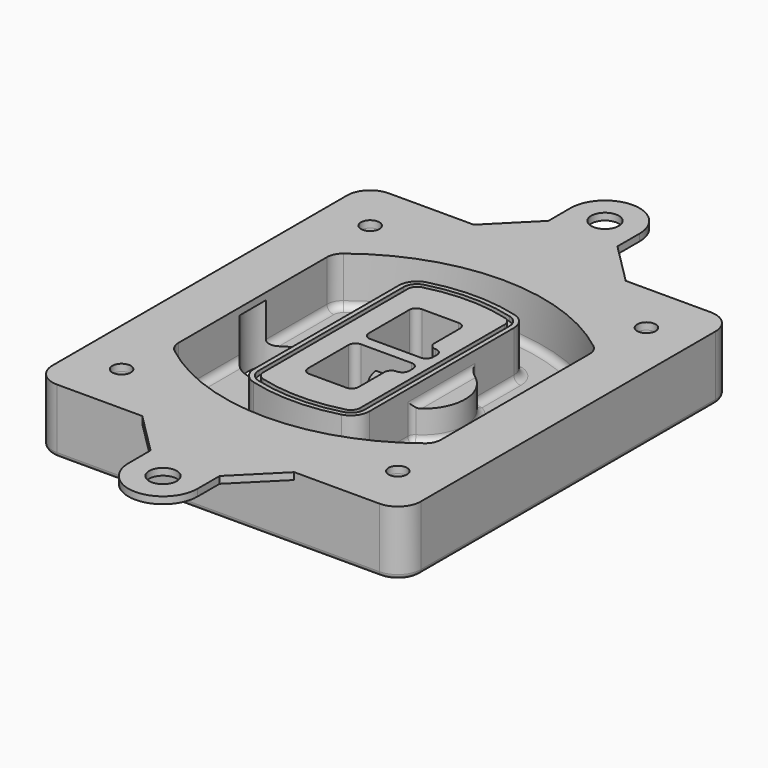
from build123d import *

# Parameters (mm, degrees)
F0_R      = 4
F1_DEPTH  = 25
F2_DEPTH  = 3
F3_DEPTH  = 18
F5_DEPTH  = 21
F6_DEPTH  = 2
F8_DEPTH  = 20
F9_DEPTH  = 16
F10_DEPTH = 25
F7_R      = 6
F7_R_2    = 4
F11_DEPTH = 6
F13_DEPTH = 9
F14_R     = 3
F15_R     = 2
F16_R     = 6
F16_R_2   = 4
F17_DEPTH = 3


with BuildPart() as f1:
    # F0 (on Top) → F1 (new body)
    with BuildSketch(Plane.XY):
        with BuildLine():
            ThreePointArc((-80, -80), (-77.0710678119, -87.0710678119), (-70, -90))
            Line((-70, -90), (70, -90))
            ThreePointArc((70, -90), (77.0710678119, -87.0710678119), (80, -80))
            Line((80, -80), (80, 80))
            ThreePointArc((80, 80), (77.0710678119, 87.0710678119), (70, 90))
            Line((70, 90), (-70, 90))
            ThreePointArc((-70, 90), (-77.0710678119, 87.0710678119), (-80, 80))
            Line((-80, 80), (-80, -80))
        make_face()
        with Locations((-60, -67.5)):
            Circle(F0_R, mode=Mode.SUBTRACT)
        with Locations((60, -67.5)):
            Circle(F0_R, mode=Mode.SUBTRACT)
        with Locations((-60, 67.5)):
            Circle(F0_R, mode=Mode.SUBTRACT)
        with BuildLine():
            ThreePointArc((-64, 40.2934422872), (-62.5820384798, 46.4328484224), (-58.6153846154, 51.3286200352))
            ThreePointArc((-58.6153846154, 51.3286200352), (0, 71.5), (58.6153846154, 51.3286200352))
            ThreePointArc((58.6153846154, 51.3286200352), (62.5820384798, 46.4328484224), (64, 40.2934422872))
            Line((64, 40.2934422872), (64, -40.2934422872))
            ThreePointArc((64, -40.2934422872), (62.5820384798, -46.4328484224), (58.6153846154, -51.3286200352))
            ThreePointArc((58.6153846154, -51.3286200352), (0, -71.5), (-58.6153846154, -51.3286200352))
            ThreePointArc((-58.6153846154, -51.3286200352), (-62.5820384798, -46.4328484224), (-64, -40.2934422872))
            Line((-64, -40.2934422872), (-64, 40.2934422872))
        make_face(mode=Mode.SUBTRACT)
        with Locations((60, 67.5)):
            Circle(F0_R, mode=Mode.SUBTRACT)
        with BuildLine():
            ThreePointArc((58.6153846154, 51.3286200352), (0, 71.5), (-58.6153846154, 51.3286200352))
            ThreePointArc((-58.6153846154, 51.3286200352), (-62.5820384798, 46.4328484224), (-64, 40.2934422872))
            Line((-64, 40.2934422872), (-64, -40.2934422872))
            ThreePointArc((-64, -40.2934422872), (-62.5820384798, -46.4328484224), (-58.6153846154, -51.3286200352))
            ThreePointArc((-58.6153846154, -51.3286200352), (0, -71.5), (58.6153846154, -51.3286200352))
            ThreePointArc((58.6153846154, -51.3286200352), (62.5820384798, -46.4328484224), (64, -40.2934422872))
            Line((64, -40.2934422872), (64, 40.2934422872))
            ThreePointArc((64, 40.2934422872), (62.5820384798, 46.4328484224), (58.6153846154, 51.3286200352))
        make_face()
        with BuildLine():
            Line((-60, -40.2934422872), (-60, 40.2934422872))
            ThreePointArc((-60, 40.2934422872), (-58.9871703427, 44.6787323838), (-56.1538461538, 48.1757121072))
            ThreePointArc((-56.1538461538, 48.1757121072), (0, 67.5), (56.1538461538, 48.1757121072))
            ThreePointArc((56.1538461538, 48.1757121072), (58.9871703427, 44.6787323838), (60, 40.2934422872))
            Line((60, 40.2934422872), (60, -40.2934422872))
            ThreePointArc((60, -40.2934422872), (58.9871703427, -44.6787323838), (56.1538461538, -48.1757121072))
            ThreePointArc((56.1538461538, -48.1757121072), (0, -67.5), (-56.1538461538, -48.1757121072))
            ThreePointArc((-56.1538461538, -48.1757121072), (-58.9871703427, -44.6787323838), (-60, -40.2934422872))
        make_face(mode=Mode.SUBTRACT)
        with BuildLine():
            ThreePointArc((-56.1538461538, 48.1757121072), (-58.9871703427, 44.6787323838), (-60, 40.2934422872))
            Line((-60, 40.2934422872), (-60, -40.2934422872))
            ThreePointArc((-60, -40.2934422872), (-58.9871703427, -44.6787323838), (-56.1538461538, -48.1757121072))
            ThreePointArc((-56.1538461538, -48.1757121072), (0, -67.5), (56.1538461538, -48.1757121072))
            ThreePointArc((56.1538461538, -48.1757121072), (58.9871703427, -44.6787323838), (60, -40.2934422872))
            Line((60, -40.2934422872), (60, 40.2934422872))
            ThreePointArc((60, 40.2934422872), (58.9871703427, 44.6787323838), (56.1538461538, 48.1757121072))
            ThreePointArc((56.1538461538, 48.1757121072), (0, 67.5), (-56.1538461538, 48.1757121072))
        make_face()
        with BuildLine():
            ThreePointArc((54.3076923077, 45.8110311612), (56.2910192399, 43.3631453548), (57, 40.2934422872))
            Line((57, 40.2934422872), (57, -40.2934422872))
            ThreePointArc((57, -40.2934422872), (56.2910192399, -43.3631453548), (54.3076923077, -45.8110311612))
            ThreePointArc((54.3076923077, -45.8110311612), (0, -64.5), (-54.3076923077, -45.8110311612))
            ThreePointArc((-54.3076923077, -45.8110311612), (-56.2910192399, -43.3631453548), (-57, -40.2934422872))
            Line((-57, -40.2934422872), (-57, 40.2934422872))
            ThreePointArc((-57, 40.2934422872), (-56.2910192399, 43.3631453548), (-54.3076923077, 45.8110311612))
            ThreePointArc((-54.3076923077, 45.8110311612), (0, 64.5), (54.3076923077, 45.8110311612))
        make_face(mode=Mode.SUBTRACT)
        with BuildLine():
            Line((57, -40.2934422872), (57, 40.2934422872))
            ThreePointArc((57, 40.2934422872), (56.2910192399, 43.3631453548), (54.3076923077, 45.8110311612))
            ThreePointArc((54.3076923077, 45.8110311612), (0, 64.5), (-54.3076923077, 45.8110311612))
            ThreePointArc((-54.3076923077, 45.8110311612), (-56.2910192399, 43.3631453548), (-57, 40.2934422872))
            Line((-57, 40.2934422872), (-57, -40.2934422872))
            ThreePointArc((-57, -40.2934422872), (-56.2910192399, -43.3631453548), (-54.3076923077, -45.8110311612))
            ThreePointArc((-54.3076923077, -45.8110311612), (0, -64.5), (54.3076923077, -45.8110311612))
            ThreePointArc((54.3076923077, -45.8110311612), (56.2910192399, -43.3631453548), (57, -40.2934422872))
        make_face()
    extrude(amount=-F1_DEPTH)

    # F0 (on Top) → F2 (join)
    with BuildSketch(Plane.XY):
        with BuildLine():
            ThreePointArc((-56.1538461538, 48.1757121072), (-58.9871703427, 44.6787323838), (-60, 40.2934422872))
            Line((-60, 40.2934422872), (-60, -40.2934422872))
            ThreePointArc((-60, -40.2934422872), (-58.9871703427, -44.6787323838), (-56.1538461538, -48.1757121072))
            ThreePointArc((-56.1538461538, -48.1757121072), (0, -67.5), (56.1538461538, -48.1757121072))
            ThreePointArc((56.1538461538, -48.1757121072), (58.9871703427, -44.6787323838), (60, -40.2934422872))
            Line((60, -40.2934422872), (60, 40.2934422872))
            ThreePointArc((60, 40.2934422872), (58.9871703427, 44.6787323838), (56.1538461538, 48.1757121072))
            ThreePointArc((56.1538461538, 48.1757121072), (0, 67.5), (-56.1538461538, 48.1757121072))
        make_face()
        with BuildLine():
            ThreePointArc((54.3076923077, 45.8110311612), (56.2910192399, 43.3631453548), (57, 40.2934422872))
            Line((57, 40.2934422872), (57, -40.2934422872))
            ThreePointArc((57, -40.2934422872), (56.2910192399, -43.3631453548), (54.3076923077, -45.8110311612))
            ThreePointArc((54.3076923077, -45.8110311612), (0, -64.5), (-54.3076923077, -45.8110311612))
            ThreePointArc((-54.3076923077, -45.8110311612), (-56.2910192399, -43.3631453548), (-57, -40.2934422872))
            Line((-57, -40.2934422872), (-57, 40.2934422872))
            ThreePointArc((-57, 40.2934422872), (-56.2910192399, 43.3631453548), (-54.3076923077, 45.8110311612))
            ThreePointArc((-54.3076923077, 45.8110311612), (0, 64.5), (54.3076923077, 45.8110311612))
        make_face(mode=Mode.SUBTRACT)
    extrude(amount=F2_DEPTH)

    # F0 (on Top) → F3 (cut)
    with BuildSketch(Plane.XY):
        with BuildLine():
            Line((57, -40.2934422872), (57, 40.2934422872))
            ThreePointArc((57, 40.2934422872), (56.2910192399, 43.3631453548), (54.3076923077, 45.8110311612))
            ThreePointArc((54.3076923077, 45.8110311612), (0, 64.5), (-54.3076923077, 45.8110311612))
            ThreePointArc((-54.3076923077, 45.8110311612), (-56.2910192399, 43.3631453548), (-57, 40.2934422872))
            Line((-57, 40.2934422872), (-57, -40.2934422872))
            ThreePointArc((-57, -40.2934422872), (-56.2910192399, -43.3631453548), (-54.3076923077, -45.8110311612))
            ThreePointArc((-54.3076923077, -45.8110311612), (0, -64.5), (54.3076923077, -45.8110311612))
            ThreePointArc((54.3076923077, -45.8110311612), (56.2910192399, -43.3631453548), (57, -40.2934422872))
        make_face()
    extrude(amount=-F3_DEPTH, mode=Mode.SUBTRACT)

    # F4 (on face) → F5 (join, through all)
    with BuildSketch(Plane.XY.offset(3)):
        with BuildLine():
            ThreePointArc((-25, -39.2465276821), (-23.3511545998, -44.1109737193), (-19.0842911877, -46.9702398883))
            ThreePointArc((-19.0842911877, -46.9702398883), (0, -49.5), (19.0842911877, -46.9702398883))
            ThreePointArc((19.0842911877, -46.9702398883), (23.3511545998, -44.1109737193), (25, -39.2465276821))
            Line((25, -39.2465276821), (25, 39.2465276821))
            ThreePointArc((25, 39.2465276821), (23.3511545998, 44.1109737193), (19.0842911877, 46.9702398883))
            ThreePointArc((19.0842911877, 46.9702398883), (0, 49.5), (-19.0842911877, 46.9702398883))
            ThreePointArc((-19.0842911877, 46.9702398883), (-23.3511545998, 44.1109737193), (-25, 39.2465276821))
            Line((-25, 39.2465276821), (-25, -39.2465276821))
        make_face()
        with BuildLine():
            ThreePointArc((18.5632183908, 45.0393118368), (21.7633659499, 42.89486221), (23, 39.2465276821))
            Line((23, 39.2465276821), (23, -39.2465276821))
            ThreePointArc((23, -39.2465276821), (21.7633659499, -42.89486221), (18.5632183908, -45.0393118368))
            ThreePointArc((18.5632183908, -45.0393118368), (0, -47.5), (-18.5632183908, -45.0393118368))
            ThreePointArc((-18.5632183908, -45.0393118368), (-21.7633659499, -42.89486221), (-23, -39.2465276821))
            Line((-23, -39.2465276821), (-23, 39.2465276821))
            ThreePointArc((-23, 39.2465276821), (-21.7633659499, 42.89486221), (-18.5632183908, 45.0393118368))
            ThreePointArc((-18.5632183908, 45.0393118368), (0, 47.5), (18.5632183908, 45.0393118368))
        make_face(mode=Mode.SUBTRACT)
        with BuildLine():
            Line((23, -39.2465276821), (23, 39.2465276821))
            ThreePointArc((23, 39.2465276821), (21.7633659499, 42.89486221), (18.5632183908, 45.0393118368))
            ThreePointArc((18.5632183908, 45.0393118368), (0, 47.5), (-18.5632183908, 45.0393118368))
            ThreePointArc((-18.5632183908, 45.0393118368), (-21.7633659499, 42.89486221), (-23, 39.2465276821))
            Line((-23, 39.2465276821), (-23, -39.2465276821))
            ThreePointArc((-23, -39.2465276821), (-21.7633659499, -42.89486221), (-18.5632183908, -45.0393118368))
            ThreePointArc((-18.5632183908, -45.0393118368), (0, -47.5), (18.5632183908, -45.0393118368))
            ThreePointArc((18.5632183908, -45.0393118368), (21.7633659499, -42.89486221), (23, -39.2465276821))
        make_face()
        with BuildLine():
            ThreePointArc((18.0421455939, 43.1083837852), (20.1755772999, 41.6787507007), (21, 39.2465276821))
            Line((21, 39.2465276821), (21, -39.2465276821))
            ThreePointArc((21, -39.2465276821), (20.1755772999, -41.6787507007), (18.0421455939, -43.1083837852))
            ThreePointArc((18.0421455939, -43.1083837852), (0, -45.5), (-18.0421455939, -43.1083837852))
            ThreePointArc((-18.0421455939, -43.1083837852), (-20.1755772999, -41.6787507007), (-21, -39.2465276821))
            Line((-21, -39.2465276821), (-21, 39.2465276821))
            ThreePointArc((-21, 39.2465276821), (-20.1755772999, 41.6787507007), (-18.0421455939, 43.1083837852))
            ThreePointArc((-18.0421455939, 43.1083837852), (0, 45.5), (18.0421455939, 43.1083837852))
        make_face(mode=Mode.SUBTRACT)
        with BuildLine():
            Line((21, -39.2465276821), (21, 39.2465276821))
            ThreePointArc((21, 39.2465276821), (20.1755772999, 41.6787507007), (18.0421455939, 43.1083837852))
            ThreePointArc((18.0421455939, 43.1083837852), (0, 45.5), (-18.0421455939, 43.1083837852))
            ThreePointArc((-18.0421455939, 43.1083837852), (-20.1755772999, 41.6787507007), (-21, 39.2465276821))
            Line((-21, 39.2465276821), (-21, -39.2465276821))
            ThreePointArc((-21, -39.2465276821), (-20.1755772999, -41.6787507007), (-18.0421455939, -43.1083837852))
            ThreePointArc((-18.0421455939, -43.1083837852), (0, -45.5), (18.0421455939, -43.1083837852))
            ThreePointArc((18.0421455939, -43.1083837852), (20.1755772999, -41.6787507007), (21, -39.2465276821))
        make_face()
        with BuildLine():
            Line((-8, -2.5), (14, -2.5))
            ThreePointArc((14, -2.5), (16.1213203436, -3.3786796564), (17, -5.5))
            Line((17, -5.5), (17, -7.5))
            ThreePointArc((17, -7.5), (16.1213203436, -9.6213203436), (14, -10.5))
            ThreePointArc((14, -10.5), (11.8786796564, -11.3786796564), (11, -13.5))
            Line((11, -13.5), (11, -27.5))
            ThreePointArc((11, -27.5), (10.1213203436, -29.6213203436), (8, -30.5))
            Line((8, -30.5), (-8, -30.5))
            ThreePointArc((-8, -30.5), (-10.1213203436, -29.6213203436), (-11, -27.5))
            Line((-11, -27.5), (-11, -5.5))
            ThreePointArc((-11, -5.5), (-10.1213203436, -3.3786796564), (-8, -2.5))
        make_face(mode=Mode.SUBTRACT)
        with BuildLine():
            ThreePointArc((-8, 2.5), (-10.1213203436, 3.3786796564), (-11, 5.5))
            Line((-11, 5.5), (-11, 27.5))
            ThreePointArc((-11, 27.5), (-10.1213203436, 29.6213203436), (-8, 30.5))
            Line((-8, 30.5), (8, 30.5))
            ThreePointArc((8, 30.5), (10.1213203436, 29.6213203436), (11, 27.5))
            Line((11, 27.5), (11, 13.5))
            ThreePointArc((11, 13.5), (11.8786796564, 11.3786796564), (14, 10.5))
            ThreePointArc((14, 10.5), (16.1213203436, 9.6213203436), (17, 7.5))
            Line((17, 7.5), (17, 5.5))
            ThreePointArc((17, 5.5), (16.1213203436, 3.3786796564), (14, 2.5))
            Line((14, 2.5), (-8, 2.5))
        make_face(mode=Mode.SUBTRACT)
    extrude(amount=-F5_DEPTH)

    # F4 (on face) → F6 (cut)
    with BuildSketch(Plane.XY.offset(3)):
        with BuildLine():
            Line((23, -39.2465276821), (23, 39.2465276821))
            ThreePointArc((23, 39.2465276821), (21.7633659499, 42.89486221), (18.5632183908, 45.0393118368))
            ThreePointArc((18.5632183908, 45.0393118368), (0, 47.5), (-18.5632183908, 45.0393118368))
            ThreePointArc((-18.5632183908, 45.0393118368), (-21.7633659499, 42.89486221), (-23, 39.2465276821))
            Line((-23, 39.2465276821), (-23, -39.2465276821))
            ThreePointArc((-23, -39.2465276821), (-21.7633659499, -42.89486221), (-18.5632183908, -45.0393118368))
            ThreePointArc((-18.5632183908, -45.0393118368), (0, -47.5), (18.5632183908, -45.0393118368))
            ThreePointArc((18.5632183908, -45.0393118368), (21.7633659499, -42.89486221), (23, -39.2465276821))
        make_face()
        with BuildLine():
            ThreePointArc((18.0421455939, 43.1083837852), (20.1755772999, 41.6787507007), (21, 39.2465276821))
            Line((21, 39.2465276821), (21, -39.2465276821))
            ThreePointArc((21, -39.2465276821), (20.1755772999, -41.6787507007), (18.0421455939, -43.1083837852))
            ThreePointArc((18.0421455939, -43.1083837852), (0, -45.5), (-18.0421455939, -43.1083837852))
            ThreePointArc((-18.0421455939, -43.1083837852), (-20.1755772999, -41.6787507007), (-21, -39.2465276821))
            Line((-21, -39.2465276821), (-21, 39.2465276821))
            ThreePointArc((-21, 39.2465276821), (-20.1755772999, 41.6787507007), (-18.0421455939, 43.1083837852))
            ThreePointArc((-18.0421455939, 43.1083837852), (0, 45.5), (18.0421455939, 43.1083837852))
        make_face(mode=Mode.SUBTRACT)
    extrude(amount=-F6_DEPTH, mode=Mode.SUBTRACT)

    # F7 (on face) → F8 (join)
    with BuildSketch(Plane(origin=(0, 0, -25), x_dir=(1, 0, 0), z_dir=(0, 0, -1))):
        with BuildLine():
            ThreePointArc((3.28842436, 0), (16.7567035675, 13.4682792075), (30.224982775, 0))
            Line((30.224982775, 0), (35.224982775, 0))
            ThreePointArc((35.224982775, 0), (16.7567035675, 18.4682792075), (-1.71157564, 0))
            Line((-1.71157564, 0), (3.28842436, 0))
        make_face()
        with BuildLine():
            Line((3.28842436, 0), (30.224982775, 0))
            ThreePointArc((30.224982775, 0), (16.7567035675, 13.4682792075), (3.28842436, 0))
        make_face()
        with BuildLine():
            ThreePointArc((3.28842436, 0), (16.7567035675, -13.4682792075), (30.224982775, 0))
            Line((30.224982775, 0), (3.28842436, 0))
        make_face()
        with BuildLine():
            Line((35.224982775, 0), (30.224982775, 0))
            ThreePointArc((30.224982775, 0), (16.7567035675, -13.4682792075), (3.28842436, 0))
            Line((3.28842436, 0), (-1.71157564, 0))
            ThreePointArc((-1.71157564, 0), (16.7567035675, -18.4682792075), (35.224982775, 0))
        make_face()
    extrude(amount=-F8_DEPTH)

    # F7 (on face) → F9 (cut)
    with BuildSketch(Plane(origin=(0, 0, -25), x_dir=(1, 0, 0), z_dir=(0, 0, -1))):
        with BuildLine():
            Line((3.28842436, 0), (30.224982775, 0))
            ThreePointArc((30.224982775, 0), (16.7567035675, 13.4682792075), (3.28842436, 0))
        make_face()
        with BuildLine():
            ThreePointArc((3.28842436, 0), (16.7567035675, -13.4682792075), (30.224982775, 0))
            Line((30.224982775, 0), (3.28842436, 0))
        make_face()
    extrude(amount=-F9_DEPTH, mode=Mode.SUBTRACT)

    # F7 (on face) → F10 (cut)
    with BuildSketch(Plane(origin=(0, 0, -25), x_dir=(1, 0, 0), z_dir=(0, 0, -1))):
        with BuildLine():
            Line((-59.0318229325, 0), (-32.0952645175, 0))
            ThreePointArc((-32.0952645175, 0), (-45.563543725, 13.4682792075), (-59.0318229325, 0))
        make_face()
        with BuildLine():
            ThreePointArc((-59.0318229325, 0), (-45.563543725, -13.4682792075), (-32.0952645175, 0))
            Line((-32.0952645175, 0), (-59.0318229325, 0))
        make_face()
    extrude(amount=-F10_DEPTH, mode=Mode.SUBTRACT)

    # F7 (on face) → F11 (cut)
    with BuildSketch(Plane(origin=(0, 0, -25), x_dir=(1, 0, 0), z_dir=(0, 0, -1))):
        with Locations((60, -67.5)):
            Circle(F7_R)
        with Locations((60, -67.5)):
            Circle(F7_R_2, mode=Mode.SUBTRACT)
        with Locations((60, -67.5)):
            Circle(F7_R)
        with Locations((60, -67.5)):
            Circle(F7_R_2, mode=Mode.SUBTRACT)
        with Locations((-60, -67.5)):
            Circle(F7_R)
        with Locations((-60, -67.5)):
            Circle(F7_R_2, mode=Mode.SUBTRACT)
        with Locations((-60, -67.5)):
            Circle(F7_R)
        with Locations((-60, -67.5)):
            Circle(F7_R_2, mode=Mode.SUBTRACT)
        with Locations((-60, 67.5)):
            Circle(F7_R)
        with Locations((-60, 67.5)):
            Circle(F7_R_2, mode=Mode.SUBTRACT)
        with Locations((-60, 67.5)):
            Circle(F7_R)
        with Locations((-60, 67.5)):
            Circle(F7_R_2, mode=Mode.SUBTRACT)
        with Locations((60, 67.5)):
            Circle(F7_R)
        with Locations((60, 67.5)):
            Circle(F7_R_2, mode=Mode.SUBTRACT)
        with Locations((60, 67.5)):
            Circle(F7_R)
        with Locations((60, 67.5)):
            Circle(F7_R_2, mode=Mode.SUBTRACT)
    extrude(amount=-F11_DEPTH, mode=Mode.SUBTRACT)

    # F12 (on face) → F13 (cut, through all)
    with BuildSketch(Plane(origin=(0, 0, -9), x_dir=(1, 0, 0), z_dir=(0, 0, -1))):
        with BuildLine():
            Line((11, 13.5), (11, 17.5481537753))
            ThreePointArc((11, 17.5481537753), (2.5696536419, 11.8239143813), (-1.5415842455, 2.5))
            Line((-1.5415842455, 2.5), (3.5224848595, 2.5))
            ThreePointArc((3.5224848595, 2.5), (6.1857188154, 8.3455872281), (11.2536447004, 12.2927168648))
            ThreePointArc((11.2536447004, 12.2927168648), (11.0640958889, 12.8831798879), (11, 13.5))
        make_face()
        with BuildLine():
            ThreePointArc((11.2536447004, -12.2927168648), (6.1857188154, -8.3455872281), (3.5224848595, -2.5))
            Line((3.5224848595, -2.5), (-1.5415842455, -2.5))
            ThreePointArc((-1.5415842455, -2.5), (2.5696536419, -11.8239143813), (11, -17.5481537753))
            Line((11, -17.5481537753), (11, -13.5))
            ThreePointArc((11, -13.5), (11.0640958889, -12.8831798879), (11.2536447004, -12.2927168648))
        make_face()
        with BuildLine():
            ThreePointArc((11.2536447004, 12.2927168648), (6.1857188154, 8.3455872281), (3.5224848595, 2.5))
            Line((3.5224848595, 2.5), (14, 2.5))
            ThreePointArc((14, 2.5), (16.1213203436, 3.3786796564), (17, 5.5))
            Line((17, 5.5), (17, 7.5))
            ThreePointArc((17, 7.5), (16.1213203436, 9.6213203436), (14, 10.5))
            ThreePointArc((14, 10.5), (12.3601599782, 10.9878446101), (11.2536447004, 12.2927168648))
        make_face()
        with BuildLine():
            Line((14, -2.5), (3.5224848595, -2.5))
            ThreePointArc((3.5224848595, -2.5), (6.1857188154, -8.3455872281), (11.2536447004, -12.2927168648))
            ThreePointArc((11.2536447004, -12.2927168648), (12.3601599782, -10.9878446101), (14, -10.5))
            ThreePointArc((14, -10.5), (16.1213203436, -9.6213203436), (17, -7.5))
            Line((17, -7.5), (17, -5.5))
            ThreePointArc((17, -5.5), (16.1213203436, -3.3786796564), (14, -2.5))
        make_face()
    extrude(amount=F13_DEPTH, mode=Mode.SUBTRACT)

    # F14
    f14_edges = [f1.edges().sort_by_distance(p)[0] for p in [
        (-57, -23.703476, -18),
        (-57, 23.703476, -18),
        (25, 0, -5),
        (25, 16.526506, -11.5),
        (25, -16.526506, -11.5),
        (25, -27.886517, -18),
        (35.224983, 0, -18),
    ]]
    fillet(f14_edges, radius=F14_R)

    # F15
    f15_edges = [f1.edges().sort_by_distance(p)[0] for p in [
        (0, -90, -25),
    ]]
    fillet(f15_edges, radius=F15_R)

    # F16 (on face) → F17 (join, through all)
    with BuildSketch(Plane.XY):
        with BuildLine():
            Line((15, 108), (15, 120))
            ThreePointArc((15, 120), (0, 135), (-15, 120))
            Line((-15, 120), (-15, 108))
            Line((-15, 108), (-33, 90))
            Line((-33, 90), (33, 90))
            Line((33, 90), (15, 108))
        make_face()
        with Locations((0, 120)):
            Circle(F16_R, mode=Mode.SUBTRACT)
        with BuildLine():
            Line((70, 90), (33, 90))
            Line((33, 90), (-33, 90))
            Line((-33, 90), (-70, 90))
            ThreePointArc((-70, 90), (-77.0710678119, 87.0710678119), (-80, 80))
            Line((-80, 80), (-80, -80))
            ThreePointArc((-80, -80), (-77.0710678119, -87.0710678119), (-70, -90))
            Line((-70, -90), (-33, -90))
            Line((-33, -90), (33, -90))
            Line((33, -90), (70, -90))
            ThreePointArc((70, -90), (77.0710678119, -87.0710678119), (80, -80))
            Line((80, -80), (80, 80))
            ThreePointArc((80, 80), (77.0710678119, 87.0710678119), (70, 90))
        make_face()
        with Locations((-60, -67.5)):
            Circle(F16_R_2, mode=Mode.SUBTRACT)
        with Locations((60, -67.5)):
            Circle(F16_R_2, mode=Mode.SUBTRACT)
        with Locations((-60, 67.5)):
            Circle(F16_R_2, mode=Mode.SUBTRACT)
        with BuildLine():
            ThreePointArc((-60, 40.2934422872), (-58.9871703427, 44.6787323838), (-56.1538461538, 48.1757121072))
            ThreePointArc((-56.1538461538, 48.1757121072), (0, 67.5), (56.1538461538, 48.1757121072))
            ThreePointArc((56.1538461538, 48.1757121072), (58.9871703427, 44.6787323838), (60, 40.2934422872))
            Line((60, 40.2934422872), (60, -40.2934422872))
            ThreePointArc((60, -40.2934422872), (58.9871703427, -44.6787323838), (56.1538461538, -48.1757121072))
            ThreePointArc((56.1538461538, -48.1757121072), (0, -67.5), (-56.1538461538, -48.1757121072))
            ThreePointArc((-56.1538461538, -48.1757121072), (-58.9871703427, -44.6787323838), (-60, -40.2934422872))
            Line((-60, -40.2934422872), (-60, 40.2934422872))
        make_face(mode=Mode.SUBTRACT)
        with Locations((60, 67.5)):
            Circle(F16_R_2, mode=Mode.SUBTRACT)
        with BuildLine():
            Line((15, -108), (33, -90))
            Line((33, -90), (-33, -90))
            Line((-33, -90), (-15, -108))
            Line((-15, -108), (-15, -120))
            ThreePointArc((-15, -120), (0, -135), (15, -120))
            Line((15, -120), (15, -108))
        make_face()
        with Locations((0, -120)):
            Circle(F16_R, mode=Mode.SUBTRACT)
    extrude(amount=F17_DEPTH)


solid = f1.part
